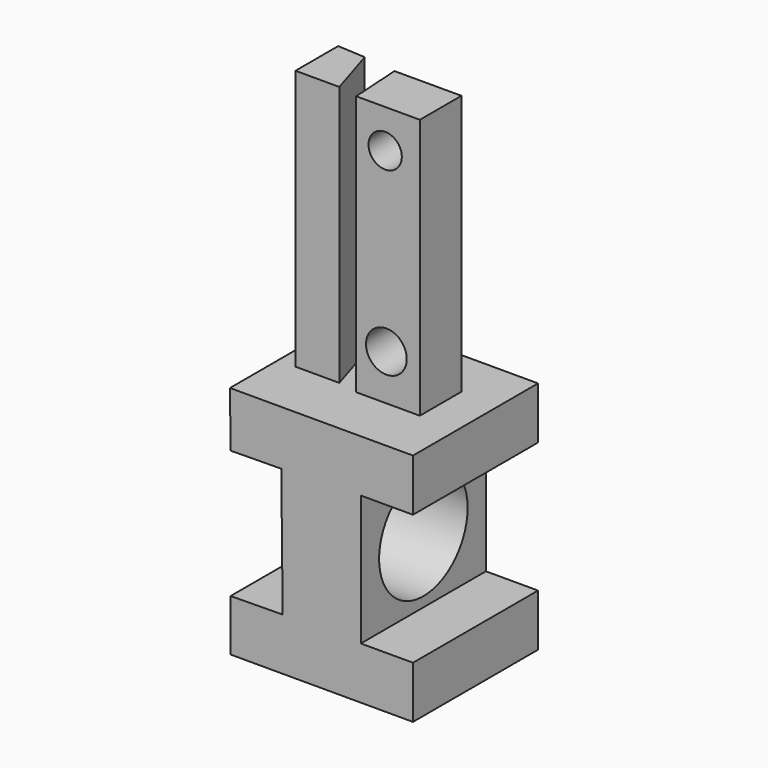
from build123d import *

# Parameters (mm, degrees)
F1_DEPTH  = 76.2
F2_R      = 26.962809
F3_DEPTH  = 63.798865
F5_DEPTH  = 127
F7_DEPTH  = 127
F8_R      = 8.119413
F9_DEPTH  = 48.922082
F10_R     = 9.932107
F11_DEPTH = 52.600686


with BuildPart() as f1:
    # F0 (on Front) → F1 (new body)
    with BuildSketch(Plane.XZ):
        Polygon((-32.091218, -26.459824), (-32.091218, -51.57762), (56.808782, -51.57762), (56.808782, -26.17762), (31.408782, -26.17762), (31.408782, 37.32238), (56.808782, 37.32238), (56.808782, 62.72238), (-32.389083, 62.72238), (-32.091218, 35.914471), (-7.385746, 36.188975), (-6.692785, -26.17762), align=None)
    extrude(amount=F1_DEPTH)

    # F2 (on face) → F3 (cut, through all)
    with BuildSketch(Plane.YZ.offset(31.408782)):
        with Locations((-38.1, 5.57238)):
            Circle(F2_R)
    extrude(amount=-F3_DEPTH, mode=Mode.SUBTRACT)

    # F4 (on face) → F5 (join)
    with BuildSketch(Plane.XY.offset(62.72238)):
        Polygon((5.720465, -23.600314), (7.3049, -48.921082), (38.345255, -48.921082), (38.345255, -23.600314), align=None)
    extrude(amount=F5_DEPTH)

    # F6 (on face) → F7 (join)
    with BuildSketch(Plane.XY.offset(62.72238)):
        Polygon((-2.503503, -46.93903), (-10.301619, -21.702323), (-23.880914, -20.912418), (-23.880914, -46.93903), align=None)
    extrude(amount=F7_DEPTH)

    # F8 (on face) → F9 (cut, through all)
    with BuildSketch(Plane.XZ.offset(48.921082)):
        with Locations((21.437701, 170.965254)):
            Circle(F8_R)
    extrude(amount=-F9_DEPTH, mode=Mode.SUBTRACT)

    # F10 (on face) → F11 (cut, through all)
    with BuildSketch(Plane(origin=(0, -23.600314, 0), x_dir=(-1, 0, 0), z_dir=(0, 1, 0))):
        with Locations((-22.03286, 84.947929)):
            Circle(F10_R)
    extrude(amount=-F11_DEPTH, mode=Mode.SUBTRACT)


solid = f1.part
